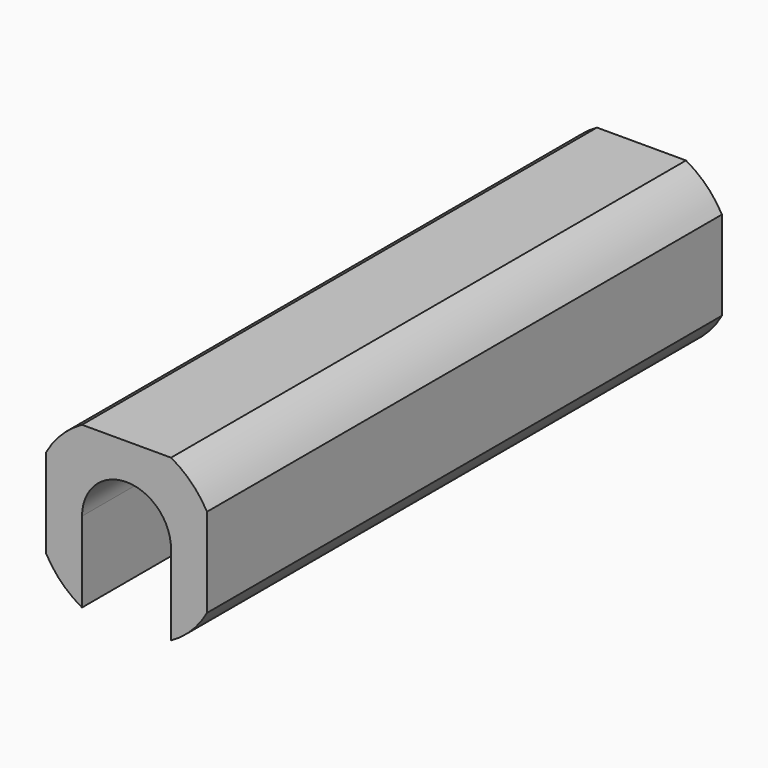
from build123d import *

# Parameters (mm, degrees)
F0_R     = 2.38125
F0_R_2   = 38.1
F1_DEPTH = 165.1
F2_R     = 19.05
F3_DEPTH = 12.7
F5_DEPTH = 177.8


with BuildPart() as f1:
    # F0 (on Front) → F1 (new body)
    with BuildSketch(Plane.XZ):
        with BuildLine():
            Line((24.593444, 44.45), (-24.593444, 44.45))
            ThreePointArc((-24.593444, 44.45), (-35.921024, 35.921024), (-44.45, 24.593444))
            Line((-44.45, 24.593444), (-44.45, -24.593444))
            ThreePointArc((-44.45, -24.593444), (-35.921024, -35.921024), (-24.593444, -44.45))
            Line((-24.593444, -44.45), (24.593444, -44.45))
            ThreePointArc((24.593444, -44.45), (35.921024, -35.921024), (44.45, -24.593444))
            Line((44.45, -24.593444), (44.45, 24.593444))
            ThreePointArc((44.45, 24.593444), (35.921024, 35.921024), (24.593444, 44.45))
        make_face()
        with Locations((-38.1, -17.4625)):
            Circle(F0_R, mode=Mode.SUBTRACT)
        with Locations((38.1, -17.4625)):
            Circle(F0_R, mode=Mode.SUBTRACT)
        Circle(F0_R_2, mode=Mode.SUBTRACT)
    extrude(amount=F1_DEPTH)

    # F2 (on face) → F3 (join)
    with BuildSketch(Plane.XZ.offset(165.1)):
        with BuildLine():
            Line((24.593444, 44.45), (-24.593444, 44.45))
            ThreePointArc((-24.593444, 44.45), (-35.921024, 35.921024), (-44.45, 24.593444))
            Line((-44.45, 24.593444), (-44.45, -24.593444))
            ThreePointArc((-44.45, -24.593444), (-35.921024, -35.921024), (-24.593444, -44.45))
            Line((-24.593444, -44.45), (24.593444, -44.45))
            ThreePointArc((24.593444, -44.45), (35.921024, -35.921024), (44.45, -24.593444))
            Line((44.45, -24.593444), (44.45, 24.593444))
            ThreePointArc((44.45, 24.593444), (35.921024, 35.921024), (24.593444, 44.45))
        make_face()
        Circle(F2_R, mode=Mode.SUBTRACT)
    extrude(amount=F3_DEPTH)

    # F4 (on face) → F5 (join)
    with BuildSketch(Plane.XZ.offset(177.8)):
        with BuildLine():
            Line((24.593444, 44.45), (-24.593444, 44.45))
            ThreePointArc((-24.593444, 44.45), (-35.921024, 35.921024), (-44.45, 24.593444))
            Line((-44.45, 24.593444), (-44.45, -24.593444))
            ThreePointArc((-44.45, -24.593444), (-35.921024, -35.921024), (-24.593444, -44.45))
            Line((-24.593444, -44.45), (-24.5872, 0))
            ThreePointArc((-24.5872, 0), (0, 24.5872), (24.5872, 0))
            Line((24.5872, 0), (24.593444, -44.45))
            ThreePointArc((24.593444, -44.45), (35.921024, -35.921024), (44.45, -24.593444))
            Line((44.45, -24.593444), (44.45, 24.593444))
            ThreePointArc((44.45, 24.593444), (35.921024, 35.921024), (24.593444, 44.45))
        make_face()
    extrude(amount=F5_DEPTH)


solid = f1.part
